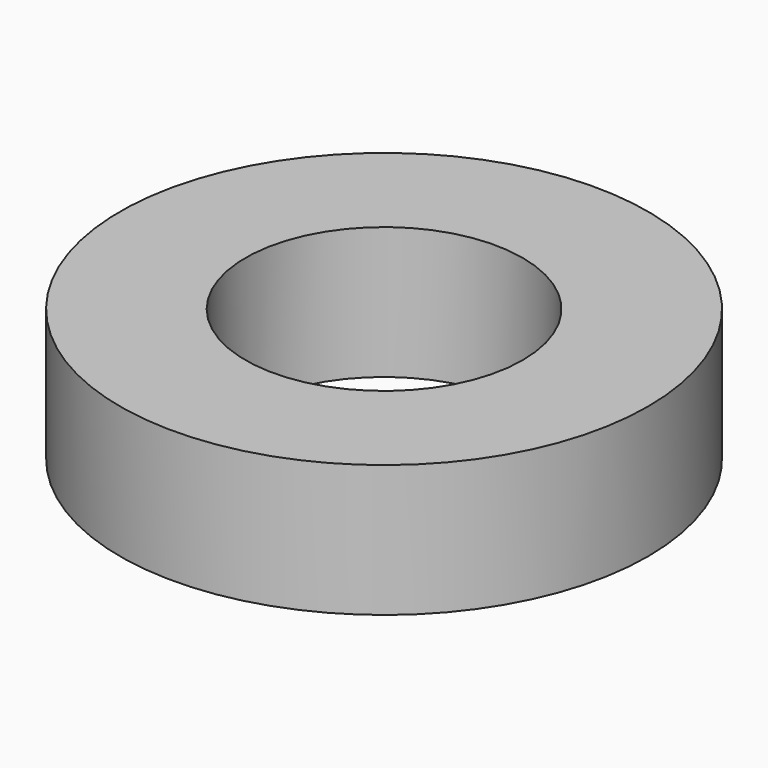
from build123d import *

# Parameters (mm, degrees)
CYLINDER029_R     = 2.1
CYLINDER029_DEPTH = 2
CYLINDER028_R     = 4
CYLINDER028_DEPTH = 2


with BuildPart() as cylinder029:
    # Cylinder029 → Cylinder029 (new body)
    with BuildSketch(Plane.XY):
        Circle(CYLINDER029_R)
    extrude(amount=CYLINDER029_DEPTH)


with BuildPart() as spacer:
    # Cylinder028 → Cylinder028 (new body)
    with BuildSketch(Plane.XY):
        Circle(CYLINDER028_R)
    extrude(amount=CYLINDER028_DEPTH)

    # Cut028006004005011004003001010002018: cut Cylinder029
    add(cylinder029.part, mode=Mode.SUBTRACT)


solid = spacer.part
